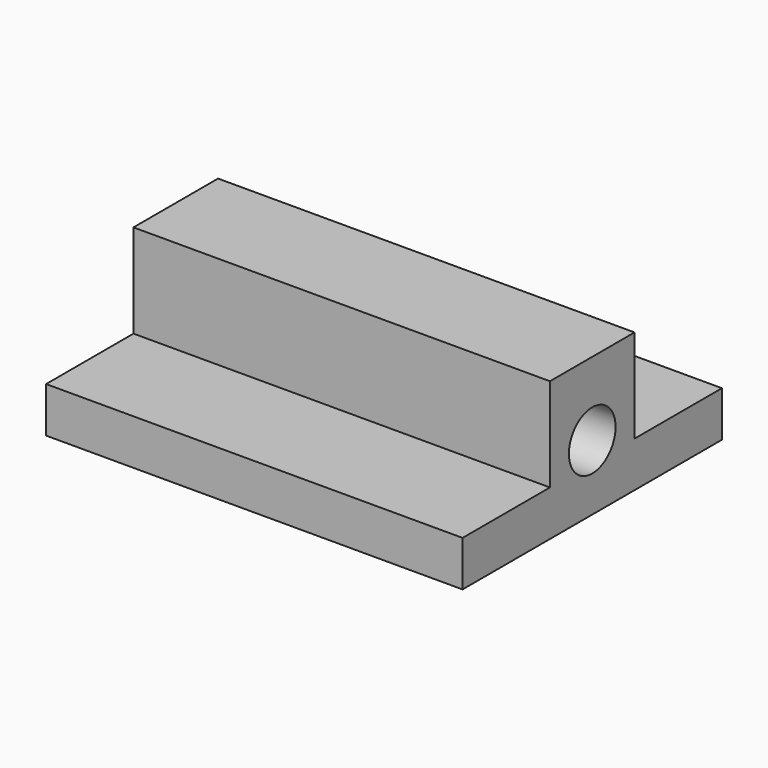
from build123d import *

# Parameters (mm, degrees)
F0_W     = 42.418
F0_H     = 33.02
F1_DEPTH = 4.6228
F2_W     = 42.418
F2_H     = 10.7696
F3_DEPTH = 9.525
F4_R     = 2.9718
F5_DEPTH = 50.8


with BuildPart() as f1:
    # F0 (on Top) → F1 (new body)
    with BuildSketch(Plane.XY):
        Rectangle(F0_W, F0_H)
    extrude(amount=F1_DEPTH)

    # F2 (on face) → F3 (join)
    with BuildSketch(Plane.XY.offset(4.6228)):
        Rectangle(F2_W, F2_H)
    extrude(amount=F3_DEPTH)

    # F4 (on face) → F5 (cut)
    with BuildSketch(Plane.YZ.offset(21.209)):
        with Locations((0, 6.6548)):
            Circle(F4_R)
    extrude(amount=-F5_DEPTH, mode=Mode.SUBTRACT)


solid = f1.part
